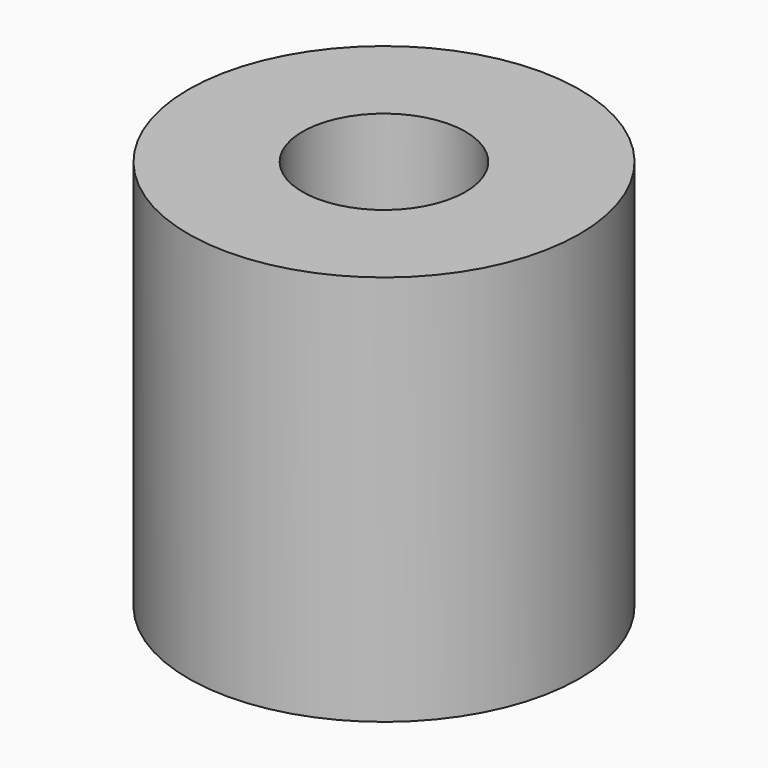
from build123d import *

# Parameters (mm, degrees)
CYLINDER008_R     = 1.25
CYLINDER008_DEPTH = 5
CYLINDER019_R     = 3
CYLINDER019_DEPTH = 6


with BuildPart() as obj1:
    # Cylinder008 → Cylinder008 (new body)
    with BuildSketch(Plane(origin=(50, 14, 3), x_dir=(1, 0, 0), z_dir=(0, 0, 1))):
        Circle(CYLINDER008_R)
    extrude(amount=CYLINDER008_DEPTH)


with BuildPart() as h_cut009:
    # Cylinder019 → Cylinder019 (new body)
    with BuildSketch(Plane(origin=(50, 14, 0), x_dir=(1, 0, 0), z_dir=(0, 0, 1))):
        Circle(CYLINDER019_R)
    extrude(amount=CYLINDER019_DEPTH)

    # Cut009: cut obj1
    add(obj1.part, mode=Mode.SUBTRACT)


with BuildPart() as h_cut009_1:
    # Cut009 placement: moved
    add(h_cut009.part.moved(Location((-36, -6.5, 0))))


solid = h_cut009_1.part
